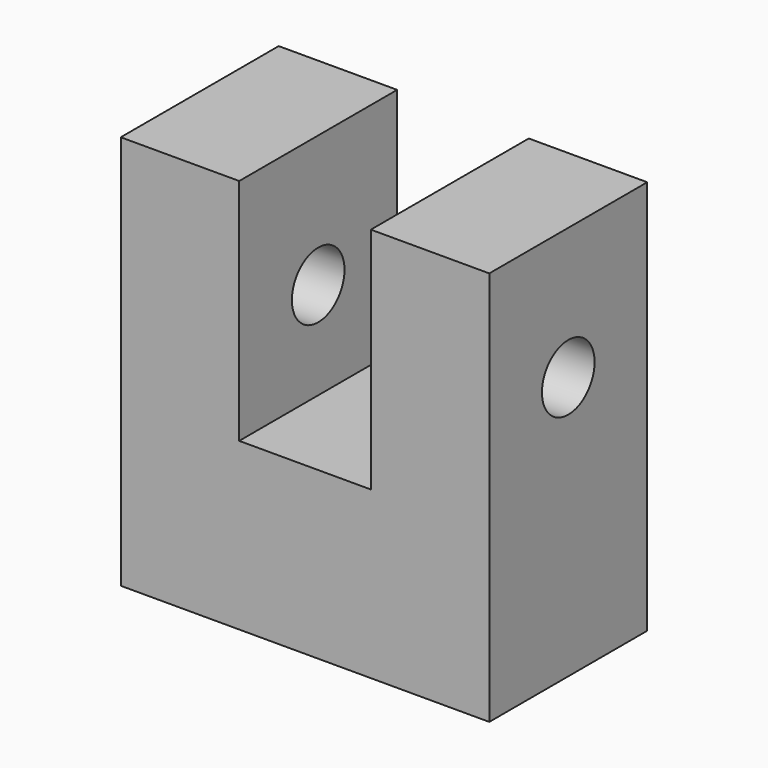
from build123d import *

# Parameters (mm, degrees)
F1_DEPTH = 19.05
F2_R     = 3.175
F3_DEPTH = 35.561
F4_R     = 3.175
F5_DEPTH = 19.05


with BuildPart() as f1:
    # F0 (on Front) → F1 (new body)
    with BuildSketch(Plane.XZ):
        Polygon((-30.315266, 20.453066), (-41.745266, 20.453066), (-41.745266, -17.646934), (-6.185266, -17.646934), (-6.185266, 20.453066), (-17.615266, 20.453066), (-17.615266, -1.620747), (-30.315266, -1.620747), align=None)
    extrude(amount=F1_DEPTH)

    # F2 (on face) → F3 (cut, through all)
    with BuildSketch(Plane.YZ.offset(-6.185266)):
        with Locations((-9.525, 7.753066)):
            Circle(F2_R)
    extrude(amount=-F3_DEPTH, mode=Mode.SUBTRACT)

    # F4 (on face) → F5 (cut)
    with BuildSketch(Plane(origin=(0, 0, -17.646934), x_dir=(1, 0, 0), z_dir=(0, 0, -1))):
        with Locations((-36.970066, 12.7)):
            Circle(F4_R)
        with Locations((-10.960466, 12.7)):
            Circle(F4_R)
    extrude(amount=-F5_DEPTH, mode=Mode.SUBTRACT)


solid = f1.part
